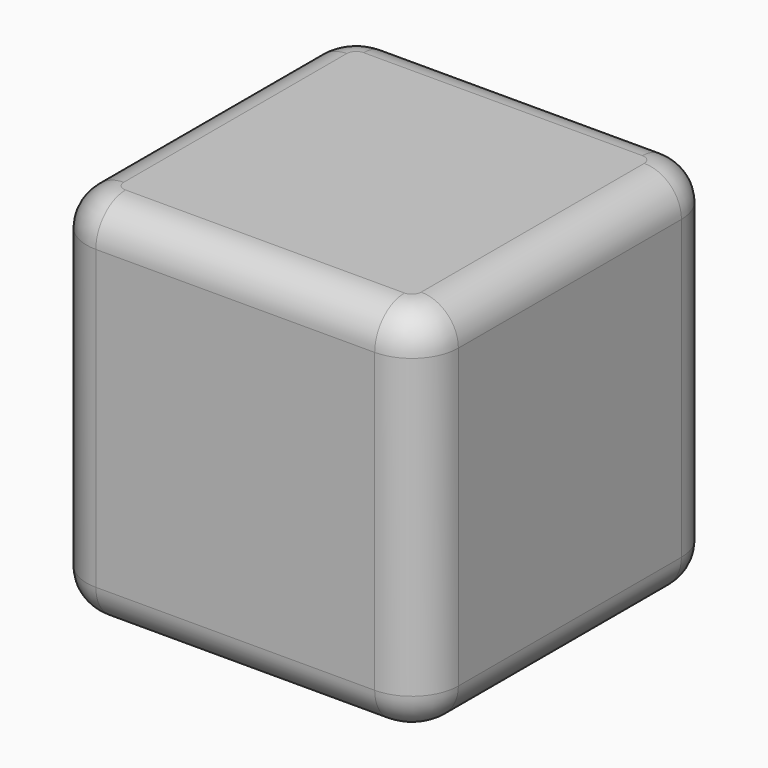
from build123d import *

# Parameters (mm, degrees)
F1_DEPTH = 50.8
F2_R     = 5.08


with BuildPart() as f1:
    # F0 (on Top) → F1 (new body)
    with BuildSketch(Plane.XY):
        with BuildLine():
            Line((0.3695, 24.638906), (-37.7305, 24.638906))
            ThreePointArc((-37.7305, 24.638906), (-42.220628, 22.779034), (-44.0805, 18.288906))
            Line((-44.0805, 18.288906), (-44.0805, -19.811094))
            ThreePointArc((-44.0805, -19.811094), (-42.220628, -24.301222), (-37.7305, -26.161094))
            Line((-37.7305, -26.161094), (0.3695, -26.161094))
            ThreePointArc((0.3695, -26.161094), (4.859628, -24.301222), (6.7195, -19.811094))
            Line((6.7195, -19.811094), (6.7195, 18.288906))
            ThreePointArc((6.7195, 18.288906), (4.859628, 22.779034), (0.3695, 24.638906))
        make_face()
    extrude(amount=F1_DEPTH)

    # F2
    f2_edges = [f1.edges().sort_by_distance(p)[0] for p in [
        (-18.6805, -26.161094, 50.8),
        (-18.6805, -26.161094, 0),
    ]]
    fillet(f2_edges, radius=F2_R)


solid = f1.part
